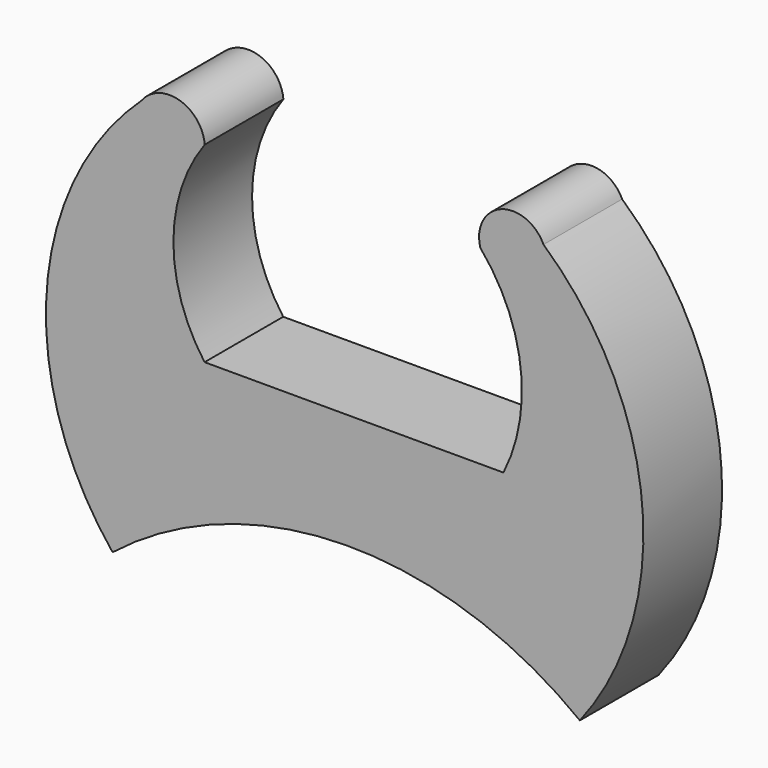
from build123d import *

# Parameters (mm, degrees)
F0_W     = 7.112
F0_H     = 7.316239
F1_DEPTH = 19.05


with BuildPart() as f1:
    # F0 (on Front) → F1 (new body)
    with BuildSketch(Plane.XZ):
        with BuildLine():
            ThreePointArc((-27.114501, 38.893752), (-32.012181, 44.876616), (-39.353315, 42.44975))
            ThreePointArc((-39.353315, 42.44975), (-57.738612, 4.113074), (-44.973303, -36.44265))
            ThreePointArc((-44.973303, -36.44265), (0.170855, -20.527097), (45.573682, -35.688993))
            ThreePointArc((45.573682, -35.688993), (57.655342, 5.150357), (38.526372, 43.201659))
            ThreePointArc((38.526372, 43.201659), (30.320612, 46.569585), (26.283572, 38.671501))
            ThreePointArc((26.283572, 38.671501), (34.091174, 20.901024), (30.76575, 1.778))
            Line((30.76575, 1.778), (-14.44625, 1.778))
            Line((-14.44625, 1.778), (-27.14625, 1.778))
            ThreePointArc((-27.14625, 1.778), (-33.184244, 20.341054), (-27.114501, 38.893752))
        make_face()
        with Locations((1.80975, -8.780336)):
            Rectangle(F0_W, F0_H, mode=Mode.SUBTRACT)
        with Locations((1.80975, -8.780336)):
            Rectangle(F0_W, F0_H)
    extrude(amount=F1_DEPTH)


solid = f1.part
